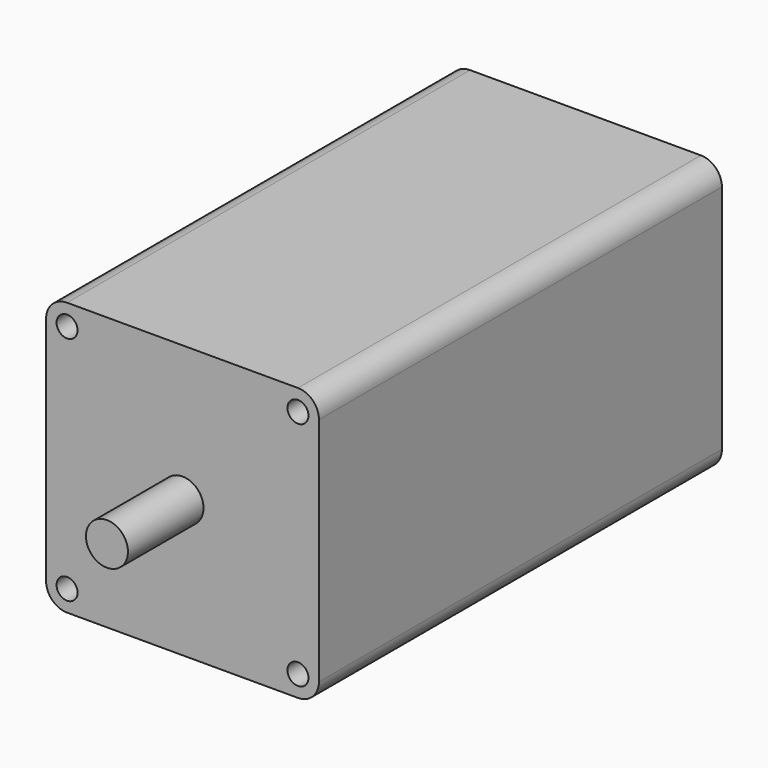
from build123d import *

# Parameters (mm, degrees)
F0_W     = 82.55
F0_H     = 82.55
F1_DEPTH = 152.4
F2_R     = 6.35
F3_R     = 6.35
F4_DEPTH = 28.575
F5_R     = 3.175
F6_DEPTH = 25.4


with BuildPart() as f1:
    # F0 (on Front) → F1 (new body)
    with BuildSketch(Plane.XZ):
        with Locations((41.275, 41.275)):
            Rectangle(F0_W, F0_H)
    extrude(amount=F1_DEPTH)

    # F2
    f2_edges = [f1.edges().sort_by_distance(p)[0] for p in [
        (0, -76.2, 82.55),
        (0, -76.2, 0),
        (82.55, -76.2, 82.55),
        (82.55, -76.2, 0),
    ]]
    fillet(f2_edges, radius=F2_R)

    # F3 (on face) → F4 (join)
    with BuildSketch(Plane.XZ.offset(152.4)):
        with Locations((41.275, 41.275)):
            Circle(F3_R)
    extrude(amount=F4_DEPTH)

    # F5 (on face) → F6 (cut)
    with BuildSketch(Plane.XZ.offset(152.4)):
        with Locations((6.35, 76.2)):
            Circle(F5_R)
        with Locations((6.35, 6.35)):
            Circle(F5_R)
        with Locations((76.2, 76.2)):
            Circle(F5_R)
        with Locations((76.2, 6.35)):
            Circle(F5_R)
    extrude(amount=-F6_DEPTH, mode=Mode.SUBTRACT)


solid = f1.part
